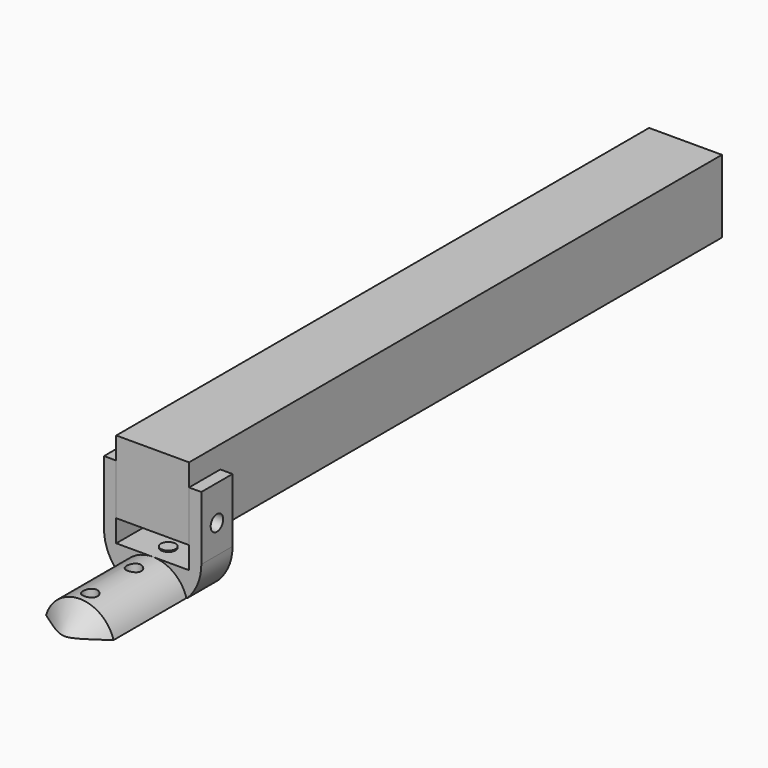
from build123d import *

# Parameters (mm, degrees)
BOX_W             = 28
BOX_H             = 256
BOX_DEPTH         = 28
CYLINDER012_R     = 2.8
CYLINDER012_DEPTH = 10
CYLINDER015_R     = 2.8
CYLINDER015_DEPTH = 12
CYLINDER011_R     = 2.8
CYLINDER011_DEPTH = 12
CYLINDER009_R     = 3
CYLINDER009_DEPTH = 100
BOX018_W          = 28
BOX018_H          = 254
BOX018_DEPTH      = 28
BOX015_W          = 37.4
BOX015_H          = 15
BOX015_DEPTH      = 37.75
BOX016_W          = 27
BOX016_H          = 75
BOX016_DEPTH      = 20
CONE_ANGLE        = 180
CYLINDER_R        = 13.5
CYLINDER_DEPTH    = 50
CYLINDER016_R     = 18.7
CYLINDER016_DEPTH = 63
BOX019_W          = 40
BOX019_H          = 18
BOX019_DEPTH      = 29


with BuildPart() as tslotframecut:
    # Box → Box (new body)
    with BuildSketch(Plane(origin=(-0.5, 30, 65), x_dir=(1, 0, 0), z_dir=(0, 0, 1))):
        with Locations((14, 128)):
            Rectangle(BOX_W, BOX_H)
    extrude(amount=BOX_DEPTH)


with BuildPart() as cylinder012:
    # Cylinder012 → Cylinder012 (new body)
    with BuildSketch(Plane(origin=(13.5, 37.5, 47), x_dir=(0, 1, 0), z_dir=(0, 0, 1))):
        Circle(CYLINDER012_R)
    extrude(amount=CYLINDER012_DEPTH)


with BuildPart() as cylinder015:
    # Cylinder015 → Cylinder015 (new body)
    with BuildSketch(Plane(origin=(13.5, 21, 45), x_dir=(0, 1, 0), z_dir=(0, 0, 1))):
        Circle(CYLINDER015_R)
    extrude(amount=CYLINDER015_DEPTH)


with BuildPart() as heatsetcuts:
    # Cylinder011 → Cylinder011 (new body)
    with BuildSketch(Plane(origin=(13.5, 0, 45), x_dir=(0, 1, 0), z_dir=(0, 0, 1))):
        Circle(CYLINDER011_R)
    extrude(amount=CYLINDER011_DEPTH)

    # Fusion001: union Cylinder015
    add(cylinder015.part)


with BuildPart() as m5cut:
    # Cylinder009 → Cylinder009 (new body)
    with BuildSketch(Plane(origin=(-56.4, 37.5, 71), x_dir=(0, 0, -1), z_dir=(1, 0, 0))):
        Circle(CYLINDER009_R)
    extrude(amount=CYLINDER009_DEPTH)


with BuildPart() as tslotframecut001:
    # Box018 → Box018 (new body)
    with BuildSketch(Plane(origin=(-0.5, 0, 56.5), x_dir=(1, 0, 0), z_dir=(0, 0, 1))):
        with Locations((14, 127)):
            Rectangle(BOX018_W, BOX018_H)
    extrude(amount=BOX018_DEPTH)


with BuildPart() as cut010:
    # Box015 → Box015 (new body)
    with BuildSketch(Plane(origin=(-5.2, 30, 46.75), x_dir=(1, 0, 0), z_dir=(0, 0, 1))):
        with Locations((18.7, 7.5)):
            Rectangle(BOX015_W, BOX015_H)
    extrude(amount=BOX015_DEPTH)

    # Cut009: cut TSlotFrameCut001
    add(tslotframecut001.part, mode=Mode.SUBTRACT)

    # Cut010: cut m5Cut
    add(m5cut.part, mode=Mode.SUBTRACT)


with BuildPart() as shell_holder002:
    # Box016 → Box016 (new body)
    with BuildSketch(Plane(origin=(0, -20.5, 26.75), x_dir=(1, 0, 0), z_dir=(0, 0, 1))):
        with Locations((13.5, 37.5)):
            Rectangle(BOX016_W, BOX016_H)
    extrude(amount=BOX016_DEPTH)


with BuildPart() as cone:
    # Cone → Cone (revolve)
    with BuildSketch(Plane(origin=(13.5, -5, 43), x_dir=(1, 0, 0), z_dir=(0, 0, -1))):
        Polygon((0, 0), (13.5, 0), (0, 10), align=None)
    revolve(axis=Axis((13.5, -5, 43), (0, -1, 0)), revolution_arc=CONE_ANGLE)


with BuildPart() as cut011:
    # Cylinder → Cylinder (new body)
    with BuildSketch(Plane(origin=(13.5, -5, 43), x_dir=(1, 0, 0), z_dir=(0, 1, 0))):
        Circle(CYLINDER_R)
    extrude(amount=CYLINDER_DEPTH)

    # Fusion: union Cone
    add(cone.part)

    # Cut: cut Shell_Holder002
    add(shell_holder002.part, mode=Mode.SUBTRACT)

    # Fusion002: union Cut010
    add(cut010.part)

    # Cut011: cut heatSetCuts
    add(heatsetcuts.part, mode=Mode.SUBTRACT)


with BuildPart() as reshapes:
    # Cylinder016 → Cylinder016 (new body)
    with BuildSketch(Plane(origin=(13.5, 45, 60), x_dir=(1, 0, 0), z_dir=(0, -1, 0))):
        Circle(CYLINDER016_R)
    extrude(amount=CYLINDER016_DEPTH)


with BuildPart() as common:
    # Box019 → Box019 (new body)
    with BuildSketch(Plane(origin=(-6.5, 30, 60), x_dir=(1, 0, 0), z_dir=(0, 0, 1))):
        with Locations((20, 9)):
            Rectangle(BOX019_W, BOX019_H)
    extrude(amount=BOX019_DEPTH)

    # Fusion003: union reshapes
    add(reshapes.part)

    # Common: intersect Cut011
    add(cut011.part, mode=Mode.INTERSECT)


solid = Compound([tslotframecut.part, cylinder012.part, common.part])
